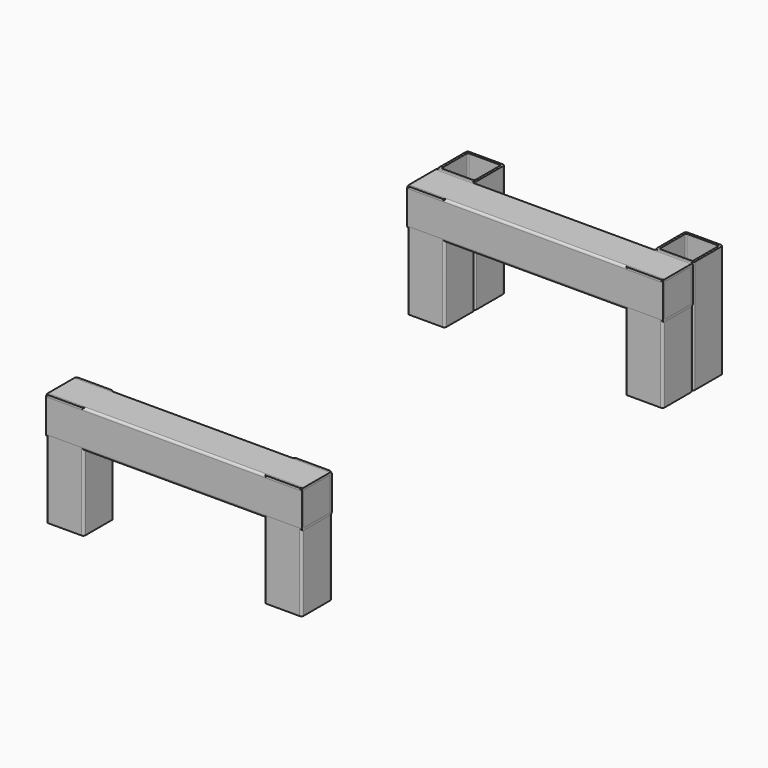
from build123d import *

# Parameters (mm, degrees)
F2_DEPTH = 150
F5_DEPTH = 340
F7_DEPTH = 150


with BuildPart() as f2:
    # F1 (on offset) → F2 (new body)
    with BuildSketch(Plane.XY.offset(50)):
        with BuildLine():
            ThreePointArc((-170, -297), (-169.12132, -299.12132), (-167, -300))
            Line((-167, -300), (-123, -300))
            ThreePointArc((-123, -300), (-120.87868, -299.12132), (-120, -297))
            Line((-120, -297), (-120, -253))
            ThreePointArc((-120, -253), (-120.87868, -250.87868), (-123, -250))
            Line((-123, -250), (-167, -250))
            ThreePointArc((-167, -250), (-169.12132, -250.87868), (-170, -253))
            Line((-170, -253), (-170, -297))
        make_face()
        with BuildLine():
            Line((-123, -254.5), (-123, -295.5))
            ThreePointArc((-123, -295.5), (-123.43934, -296.56066), (-124.5, -297))
            Line((-124.5, -297), (-165.5, -297))
            ThreePointArc((-165.5, -297), (-166.56066, -296.56066), (-167, -295.5))
            Line((-167, -295.5), (-167, -254.5))
            ThreePointArc((-167, -254.5), (-166.56066, -253.43934), (-165.5, -253))
            Line((-165.5, -253), (-124.5, -253))
            ThreePointArc((-124.5, -253), (-123.43934, -253.43934), (-123, -254.5))
        make_face(mode=Mode.SUBTRACT)
        with BuildLine():
            ThreePointArc((120, -297), (120.87868, -299.12132), (123, -300))
            Line((123, -300), (167, -300))
            ThreePointArc((167, -300), (169.12132, -299.12132), (170, -297))
            Line((170, -297), (170, -253))
            ThreePointArc((170, -253), (169.12132, -250.87868), (167, -250))
            Line((167, -250), (123, -250))
            ThreePointArc((123, -250), (120.87868, -250.87868), (120, -253))
            Line((120, -253), (120, -297))
        make_face()
        with BuildLine():
            Line((167, -254.5), (167, -295.5))
            ThreePointArc((167, -295.5), (166.56066, -296.56066), (165.5, -297))
            Line((165.5, -297), (124.5, -297))
            ThreePointArc((124.5, -297), (123.43934, -296.56066), (123, -295.5))
            Line((123, -295.5), (123, -254.5))
            ThreePointArc((123, -254.5), (123.43934, -253.43934), (124.5, -253))
            Line((124.5, -253), (165.5, -253))
            ThreePointArc((165.5, -253), (166.56066, -253.43934), (167, -254.5))
        make_face(mode=Mode.SUBTRACT)
        with BuildLine():
            ThreePointArc((-170, 303), (-169.12132, 300.87868), (-167, 300))
            Line((-167, 300), (-123, 300))
            ThreePointArc((-123, 300), (-120.87868, 300.87868), (-120, 303))
            Line((-120, 303), (-120, 347))
            ThreePointArc((-120, 347), (-120.87868, 349.12132), (-123, 350))
            Line((-123, 350), (-167, 350))
            ThreePointArc((-167, 350), (-169.12132, 349.12132), (-170, 347))
            Line((-170, 347), (-170, 303))
        make_face()
        with BuildLine():
            ThreePointArc((-165.5, 303), (-166.56066, 303.43934), (-167, 304.5))
            Line((-167, 304.5), (-167, 345.5))
            ThreePointArc((-167, 345.5), (-166.56066, 346.56066), (-165.5, 347))
            Line((-165.5, 347), (-124.5, 347))
            ThreePointArc((-124.5, 347), (-123.43934, 346.56066), (-123, 345.5))
            Line((-123, 345.5), (-123, 304.5))
            ThreePointArc((-123, 304.5), (-123.43934, 303.43934), (-124.5, 303))
            Line((-124.5, 303), (-165.5, 303))
        make_face(mode=Mode.SUBTRACT)
        with BuildLine():
            ThreePointArc((120, 303), (120.87868, 300.87868), (123, 300))
            Line((123, 300), (167, 300))
            ThreePointArc((167, 300), (169.12132, 300.87868), (170, 303))
            Line((170, 303), (170, 347))
            ThreePointArc((170, 347), (169.12132, 349.12132), (167, 350))
            Line((167, 350), (123, 350))
            ThreePointArc((123, 350), (120.87868, 349.12132), (120, 347))
            Line((120, 347), (120, 303))
        make_face()
        with BuildLine():
            Line((167, 345.5), (167, 304.5))
            ThreePointArc((167, 304.5), (166.56066, 303.43934), (165.5, 303))
            Line((165.5, 303), (124.5, 303))
            ThreePointArc((124.5, 303), (123.43934, 303.43934), (123, 304.5))
            Line((123, 304.5), (123, 345.5))
            ThreePointArc((123, 345.5), (123.43934, 346.56066), (124.5, 347))
            Line((124.5, 347), (165.5, 347))
            ThreePointArc((165.5, 347), (166.56066, 346.56066), (167, 345.5))
        make_face(mode=Mode.SUBTRACT)
    extrude(amount=F2_DEPTH)


with BuildPart() as f5:
    # F4 (on offset) → F5 (new body)
    with BuildSketch(Plane.YZ.offset(170)):
        with BuildLine():
            Line((-253, 200), (-297, 200))
            ThreePointArc((-297, 200), (-299.12132, 199.12132), (-300, 197))
            Line((-300, 197), (-300, 153))
            ThreePointArc((-300, 153), (-299.12132, 150.87868), (-297, 150))
            Line((-297, 150), (-253, 150))
            ThreePointArc((-253, 150), (-250.87868, 150.87868), (-250, 153))
            Line((-250, 153), (-250, 197))
            ThreePointArc((-250, 197), (-250.87868, 199.12132), (-253, 200))
        make_face()
        with BuildLine():
            Line((-297, 154.5), (-297, 195.5))
            ThreePointArc((-297, 195.5), (-296.56066, 196.56066), (-295.5, 197))
            Line((-295.5, 197), (-254.5, 197))
            ThreePointArc((-254.5, 197), (-253.43934, 196.56066), (-253, 195.5))
            Line((-253, 195.5), (-253, 154.5))
            ThreePointArc((-253, 154.5), (-253.43934, 153.43934), (-254.5, 153))
            Line((-254.5, 153), (-295.5, 153))
            ThreePointArc((-295.5, 153), (-296.56066, 153.43934), (-297, 154.5))
        make_face(mode=Mode.SUBTRACT)
        with BuildLine():
            Line((347, 200), (303, 200))
            ThreePointArc((303, 200), (300.87868, 199.12132), (300, 197))
            Line((300, 197), (300, 153))
            ThreePointArc((300, 153), (300.87868, 150.87868), (303, 150))
            Line((303, 150), (347, 150))
            ThreePointArc((347, 150), (349.12132, 150.87868), (350, 153))
            Line((350, 153), (350, 197))
            ThreePointArc((350, 197), (349.12132, 199.12132), (347, 200))
        make_face()
        with BuildLine():
            Line((303, 154.5), (303, 195.5))
            ThreePointArc((303, 195.5), (303.43934, 196.56066), (304.5, 197))
            Line((304.5, 197), (345.5, 197))
            ThreePointArc((345.5, 197), (346.56066, 196.56066), (347, 195.5))
            Line((347, 195.5), (347, 154.5))
            ThreePointArc((347, 154.5), (346.56066, 153.43934), (345.5, 153))
            Line((345.5, 153), (304.5, 153))
            ThreePointArc((304.5, 153), (303.43934, 153.43934), (303, 154.5))
        make_face(mode=Mode.SUBTRACT)
    extrude(amount=-F5_DEPTH)


with BuildPart() as f7:
    # F6 (on offset) → F7 (new body)
    with BuildSketch(Plane.XY.offset(50)):
        with BuildLine():
            Line((-123, 400), (-167, 400))
            ThreePointArc((-167, 400), (-169.12132, 399.12132), (-170, 397))
            Line((-170, 397), (-170, 353))
            ThreePointArc((-170, 353), (-169.12132, 350.87868), (-167, 350))
            Line((-167, 350), (-123, 350))
            ThreePointArc((-123, 350), (-120.87868, 350.87868), (-120, 353))
            Line((-120, 353), (-120, 397))
            ThreePointArc((-120, 397), (-120.87868, 399.12132), (-123, 400))
        make_face()
        with BuildLine():
            Line((-124.5, 353), (-165.5, 353))
            ThreePointArc((-165.5, 353), (-166.56066, 353.43934), (-167, 354.5))
            Line((-167, 354.5), (-167, 395.5))
            ThreePointArc((-167, 395.5), (-166.56066, 396.56066), (-165.5, 397))
            Line((-165.5, 397), (-124.5, 397))
            ThreePointArc((-124.5, 397), (-123.43934, 396.56066), (-123, 395.5))
            Line((-123, 395.5), (-123, 354.5))
            ThreePointArc((-123, 354.5), (-123.43934, 353.43934), (-124.5, 353))
        make_face(mode=Mode.SUBTRACT)
        with BuildLine():
            ThreePointArc((120, 353), (120.87868, 350.87868), (123, 350))
            Line((123, 350), (167, 350))
            ThreePointArc((167, 350), (169.12132, 350.87868), (170, 353))
            Line((170, 353), (170, 397))
            ThreePointArc((170, 397), (169.12132, 399.12132), (167, 400))
            Line((167, 400), (123, 400))
            ThreePointArc((123, 400), (120.87868, 399.12132), (120, 397))
            Line((120, 397), (120, 353))
        make_face()
        with BuildLine():
            Line((165.5, 353), (124.5, 353))
            ThreePointArc((124.5, 353), (123.43934, 353.43934), (123, 354.5))
            Line((123, 354.5), (123, 395.5))
            ThreePointArc((123, 395.5), (123.43934, 396.56066), (124.5, 397))
            Line((124.5, 397), (165.5, 397))
            ThreePointArc((165.5, 397), (166.56066, 396.56066), (167, 395.5))
            Line((167, 395.5), (167, 354.5))
            ThreePointArc((167, 354.5), (166.56066, 353.43934), (165.5, 353))
        make_face(mode=Mode.SUBTRACT)
    extrude(amount=F7_DEPTH)


solid = Compound([f2.part, f5.part, f7.part])
